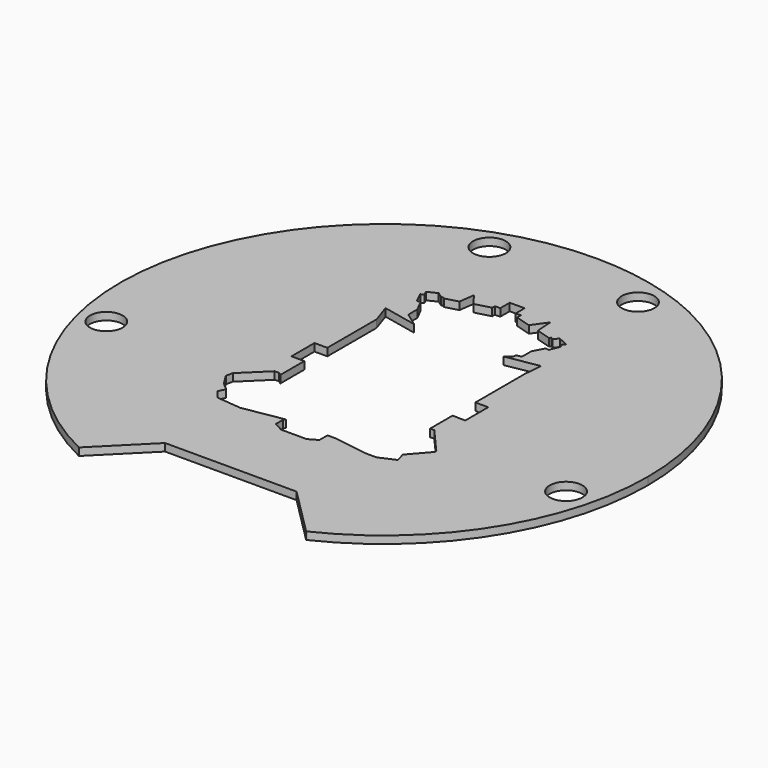
from build123d import *

# Parameters (mm, degrees)
F0_R     = 6.5
F1_DEPTH = 3


with BuildPart() as f1:
    # F0 (on Top) → F1 (new body)
    with BuildSketch(Plane.XY):
        with BuildLine():
            Line((0, 64.92969), (0, 105))
            ThreePointArc((0, 105), (-102.329905, 23.528505), (-45.860375, -94.455418))
            Line((-45.860375, -94.455418), (-26.848407, -75.44345))
            Line((-26.848407, -75.44345), (0, -75.44345))
            Line((0, -75.44345), (0, -45.946423))
            Line((0, -45.946423), (-4.373633, -45.946423))
            Line((-4.373633, -45.946423), (-8.012874, -43.948987))
            Line((-8.012874, -43.948987), (-8.012874, -40.483214))
            Line((-8.012874, -40.483214), (-7.424269, -39.663567))
            Line((-7.424269, -39.663567), (-23.331161, -42.38735))
            Line((-23.331161, -42.38735), (-33.173094, -41.479423))
            Line((-33.173094, -41.479423), (-35.896877, -38.101933))
            Line((-35.896877, -38.101933), (-34.589463, -35.37815))
            Line((-34.589463, -35.37815), (-37.494832, -32.944905))
            Line((-37.494832, -32.944905), (-40.373584, -28.384436))
            Line((-40.373584, -28.384436), (-39.757261, -25.662348))
            Line((-39.757261, -25.662348), (-30.409717, -16.543746))
            Line((-30.409717, -16.543746), (-28.680348, -16.543746))
            Line((-28.680348, -16.543746), (-27.497232, -17.393365))
            Line((-27.497232, -17.393365), (-27.497232, -5.479778))
            Line((-27.497232, -5.479778), (-32.618854, -5.479778))
            Line((-32.618854, -5.479778), (-32.618854, 5.955574))
            Line((-32.618854, 5.955574), (-27.497232, 5.955574))
            Line((-27.497232, 5.955574), (-27.497232, 30.408693))
            Line((-27.497232, 30.408693), (-30.054469, 38.053981))
            Line((-30.054469, 38.053981), (-16.39924, 35.148612))
            Line((-16.39924, 35.148612), (-21.810488, 39.03454))
            Line((-21.810488, 39.03454), (-21.810488, 43.537862))
            Line((-21.810488, 43.537862), (-24.057509, 47.911971))
            Line((-24.057509, 47.911971), (-25.507802, 47.911971))
            Line((-25.507802, 47.911971), (-27.497232, 52.08861))
            Line((-27.497232, 52.08861), (-26.29794, 52.65986))
            Line((-26.29794, 52.65986), (-27.144464, 54.437064))
            Line((-27.144464, 54.437064), (-23.446245, 56.198612))
            Line((-23.446245, 56.198612), (-21.478997, 54.78589))
            Line((-21.478997, 54.78589), (-20.486095, 54.78589))
            Line((-20.486095, 54.78589), (-20.000346, 54.437064))
            Line((-20.000346, 54.437064), (-14.9056, 55.777782))
            Line((-14.9056, 55.777782), (-14.033989, 61.988003))
            Line((-14.033989, 61.988003), (-10.583865, 57.266784))
            Line((-10.583865, 57.266784), (-4.373633, 58.90105))
            Line((-4.373633, 58.90105), (-4.373633, 60.244786))
            Line((-4.373633, 60.244786), (-2.230932, 60.244786))
            Line((-2.230932, 60.244786), (-2.230932, 64.92969))
            Line((-2.230932, 64.92969), (0, 64.92969))
        make_face()
        with Locations((-92.039506, -23.116552)):
            Circle(F0_R, mode=Mode.SUBTRACT)
        with Locations((-30.448022, 90.125876)):
            Circle(F0_R, mode=Mode.SUBTRACT)
        with BuildLine():
            ThreePointArc((45.134783, 94.804279), (23.136018, 102.419357), (0, 105))
            Line((0, 105), (0, 64.92969))
            Line((0, 64.92969), (3.688756, 64.92969))
            Line((3.688756, 64.92969), (3.688756, 60.499008))
            Line((3.688756, 60.499008), (5.722514, 60.499008))
            Line((5.722514, 60.499008), (5.722514, 58.683149))
            Line((5.722514, 58.683149), (11.814197, 56.869553))
            Line((11.814197, 56.869553), (15.854987, 62.496448))
            Line((15.854987, 62.496448), (16.254476, 55.777782))
            Line((16.254476, 55.777782), (22.025488, 54.02744))
            Line((22.025488, 54.02744), (22.527293, 54.726216))
            Line((22.527293, 54.726216), (23.500354, 54.02744))
            Line((23.500354, 54.02744), (24.861629, 55.923048))
            Line((24.861629, 55.923048), (28.822297, 54.02744))
            Line((28.822297, 54.02744), (27.664759, 52.415541))
            Line((27.664759, 52.415541), (28.711242, 52.000801))
            Line((28.711242, 52.000801), (27.023366, 47.741913))
            Line((27.023366, 47.741913), (25.696923, 48.04224))
            Line((25.696923, 48.04224), (23.37263, 43.575236))
            Line((23.37263, 43.575236), (23.37263, 39.03454))
            Line((23.37263, 39.03454), (21.266238, 38.49084))
            Line((21.266238, 38.49084), (21.266238, 37.256059))
            Line((21.266238, 37.256059), (18.796676, 35.512838))
            Line((18.796676, 35.512838), (31.907149, 37.800815))
            Line((31.907149, 37.800815), (31.300232, 30.408693))
            Line((31.300232, 30.408693), (31.300232, 5.955574))
            Line((31.300232, 5.955574), (36.421863, 5.955574))
            Line((36.421863, 5.955574), (36.419832, -5.479778))
            Line((36.419832, -5.479778), (31.300232, -5.33569))
            Line((31.300232, -5.33569), (31.300232, -15.820357))
            Line((31.300232, -15.820357), (31.300232, -16.543746))
            Line((31.300232, -16.543746), (32.996665, -16.543746))
            Line((32.996665, -16.543746), (42.221212, -27.097848))
            Line((42.221212, -27.097848), (42.221212, -27.860507))
            Line((42.221212, -27.860507), (35.611501, -35.45078))
            Line((35.611501, -35.45078), (36.628378, -39.227758))
            Line((36.628378, -39.227758), (30.418154, -41.987859))
            Line((30.418154, -41.987859), (26.169052, -41.987859))
            Line((26.169052, -41.987859), (12.985943, -39.954101))
            Line((12.985943, -39.954101), (9.281599, -39.954101))
            Line((9.281599, -39.954101), (9.281599, -43.948987))
            Line((9.281599, -43.948987), (5.795156, -45.946423))
            Line((5.795156, -45.946423), (0, -45.946423))
            Line((0, -45.946423), (0, -75.44345))
            Line((0, -75.44345), (25.397223, -75.44345))
            Line((25.397223, -75.44345), (44.40919, -94.455418))
            ThreePointArc((44.40919, -94.455418), (44.5367, -94.394607), (44.664128, -94.333625))
            ThreePointArc((44.664128, -94.333625), (88.130811, -55.593427), (104.274408, 0.348861))
            ThreePointArc((104.274408, 0.348861), (88.269743, 56.069866), (45.134783, 94.804279))
        make_face()
        with Locations((90.588322, -23.116552)):
            Circle(F0_R, mode=Mode.SUBTRACT)
        with Locations((28.571626, 90.125876)):
            Circle(F0_R, mode=Mode.SUBTRACT)
    extrude(amount=F1_DEPTH)


solid = f1.part
